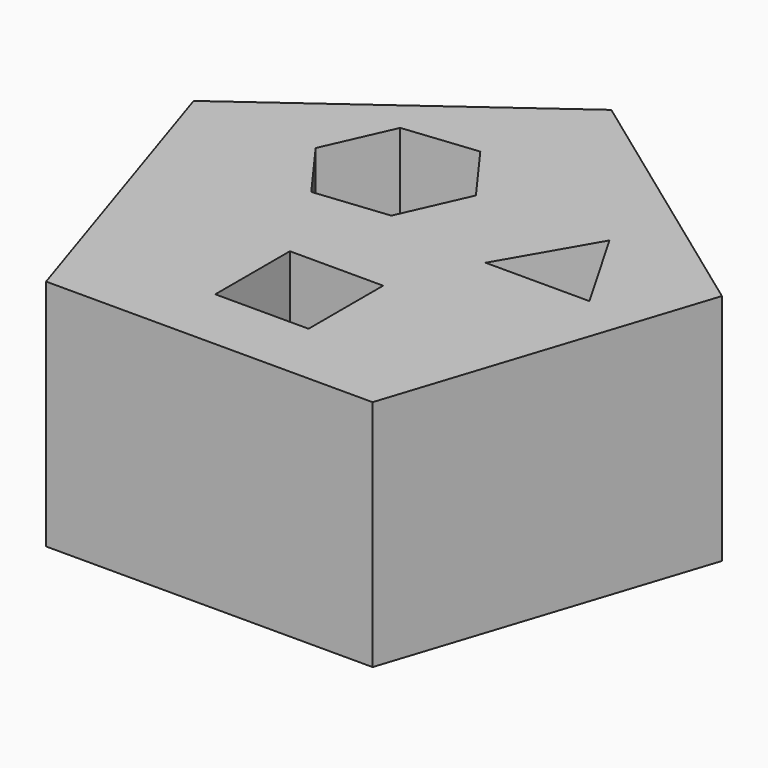
from build123d import *

# Parameters (mm, degrees)
F0_W     = 10
F0_H     = 10
F1_DEPTH = 25


with BuildPart() as f1:
    # F0 (on Top) → F1 (new body)
    with BuildSketch(Plane.XY):
        Polygon((17.5, -24.086684), (28.315595, 9.200294), (0, 29.772778), (-28.315595, 9.200294), (-17.5, -24.086684), align=None)
        with Locations((0, -12.043342)):
            Rectangle(F0_W, F0_H, mode=Mode.SUBTRACT)
        Polygon((-2.397478, 3.299846), (-10.318356, 2.467328), (-14.999777, 8.91075), (-11.760319, 16.186691), (-3.839441, 17.019209), (0.841979, 10.575786), align=None, mode=Mode.SUBTRACT)
        Polygon((14.662665, 11.197055), (20.228358, 1.556991), (9.096972, 1.556991), align=None, mode=Mode.SUBTRACT)
    extrude(amount=F1_DEPTH)


solid = f1.part
